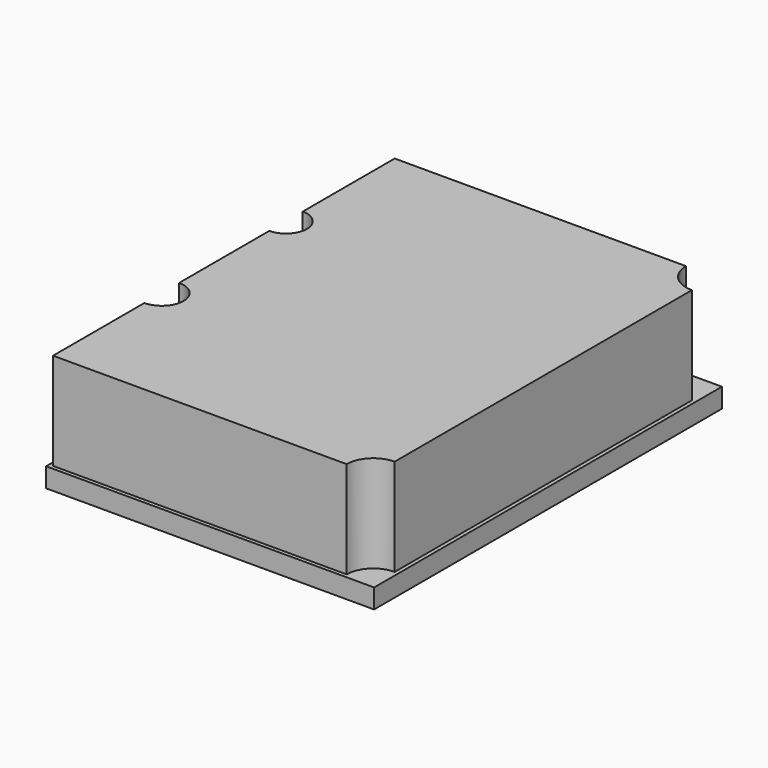
from build123d import *

# Parameters (mm, degrees)
F0_W     = 165
F0_H     = 220
F1_DEPTH = 50
F3_DEPTH = 50
F4_R     = 10.776099
F4_R_2   = 11.209408
F5_DEPTH = 50
F7_DEPTH = 10


with BuildPart() as f1:
    # F0 (on Top) → F1 (new body)
    with BuildSketch(Plane.XY):
        with Locations((-98.687344, -15.532274)):
            Rectangle(F0_W, F0_H)
    extrude(amount=F1_DEPTH)

    # F2 (on face) → F3 (cut)
    with BuildSketch(Plane.XY.offset(50)):
        with BuildLine():
            Line((-16.187344, -125.532274), (-16.187344, -111.789186))
            ThreePointArc((-16.187344, -111.789186), (-25.905174, -115.814443), (-29.930431, -125.532274))
            Line((-29.930431, -125.532274), (-16.187344, -125.532274))
        make_face()
        with BuildLine():
            Line((-16.187344, 94.467726), (-31.029011, 94.467726))
            ThreePointArc((-31.029011, 94.467726), (-26.681987, 83.973083), (-16.187344, 79.626059))
            Line((-16.187344, 79.626059), (-16.187344, 94.467726))
        make_face()
        with BuildLine():
            ThreePointArc((-2.444256, -125.532274), (-6.469513, -115.814443), (-16.187344, -111.789186))
            Line((-16.187344, -111.789186), (-16.187344, -125.532274))
            Line((-16.187344, -125.532274), (-29.930431, -125.532274))
            ThreePointArc((-29.930431, -125.532274), (-16.187344, -139.275361), (-2.444256, -125.532274))
        make_face()
        with BuildLine():
            ThreePointArc((-16.187344, 79.626059), (-5.6927, 83.973083), (-1.345676, 94.467726))
            ThreePointArc((-1.345676, 94.467726), (-16.187344, 109.309394), (-31.029011, 94.467726))
            Line((-31.029011, 94.467726), (-16.187344, 94.467726))
            Line((-16.187344, 94.467726), (-16.187344, 79.626059))
        make_face()
    extrude(amount=-F3_DEPTH, mode=Mode.SUBTRACT)

    # F4 (on face) → F5 (cut)
    with BuildSketch(Plane.XY.offset(50)):
        with Locations((-181.187344, 24.467726)):
            Circle(F4_R)
        with Locations((-181.187344, -55.532274)):
            Circle(F4_R_2)
    extrude(amount=-F5_DEPTH, mode=Mode.SUBTRACT)

    # F6 (on face) → F7 (join)
    with BuildSketch(Plane(origin=(0, 0, 0), x_dir=(1, 0, 0), z_dir=(0, 0, -1))):
        Polygon((-14.187344, 127.532274), (-181.187344, 127.532274), (-183.187344, 127.532274), (-183.187344, 125.532274), (-183.187344, -96.467726), (-159.191355, -96.467726), (-14.187344, -96.467726), (-14.187344, -65.397188), align=None)
    extrude(amount=F7_DEPTH)


solid = f1.part
